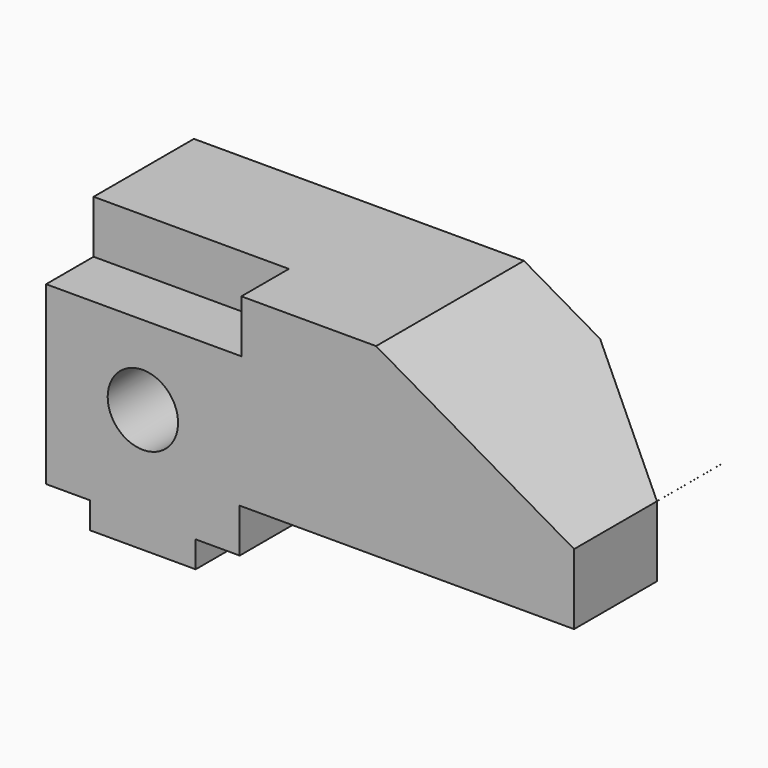
from build123d import *

# Parameters (mm, degrees)
F0_W      = 44
F0_H      = 30
F1_DEPTH  = 42
F3_D      = 16
F3_DEPTH  = 22
F3_TIP    = 4.8068849522
F4_W      = 44.3841926754
F4_H      = 12
F5_DEPTH  = 13.5
F8_DEPTH  = 87.7304734195
F10_DEPTH = 18.45
F11_DEPTH = 0.6


with BuildPart() as f1:
    # F0 (on Front) → F1 (new body)
    with BuildSketch(Plane.XZ):
        with Locations((22, 15)):
            Rectangle(F0_W, F0_H)
        Polygon((44, 0), (0, 0), (0, -10), (10, -10), (10, -16), (34, -16), (34, -10), (44, -10), align=None)
        Polygon((44, 30), (44, 0), (120, 0), (120, 16.0192378865), (75, 42), (0, 42), (0, 30), align=None)
    extrude(amount=F1_DEPTH)

    # F3
    with Locations(Plane.XZ.offset(42)):
        with Locations((22, 12)):
            Hole(F3_D / 2, depth=F3_DEPTH)
            with Locations((0, 0, -(F3_DEPTH + F3_TIP / 2))):  # 118° drill point
                Cone(0, F3_D / 2, F3_TIP, mode=Mode.SUBTRACT)

    # F4 (on face) → F5 (cut)
    with BuildSketch(Plane.XZ.offset(42)):
        with Locations((22.1920963377, 36)):
            Rectangle(F4_W, F4_H)
    extrude(amount=-F5_DEPTH, mode=Mode.SUBTRACT)

    # F7 (on face) → F8 (cut, through all)
    with BuildSketch(Plane(origin=(36.9365334795, 0, 63.9759526419), x_dir=(0.8660254038, 0, -0.5), z_dir=(0.5, 0, 0.8660254038))):
        Polygon((95.9134295109, 0), (63.9519052838, 0), (95.9134295109, -18.4529946162), align=None)
    extrude(amount=-F8_DEPTH, mode=Mode.SUBTRACT)

    # F9 (on face) → F10 (cut)
    with BuildSketch(Plane.XZ):
        Polygon((120.1416030526, 0), (120.0014874339, 16.0108022392), (110.7117310166, 0), align=None)
    extrude(amount=F10_DEPTH, mode=Mode.SUBTRACT)

    # F11 (cut): faces of the model
    f11_faces = [f1.faces().sort_by_distance(p)[0] for p in [
        (112.9756224533, -18.4444052592, 3.9017942404),
        (119.3575829171, -9.225, 14.9010392468),
    ]]
    extrude(f11_faces, amount=-F11_DEPTH, mode=Mode.SUBTRACT)


solid = f1.part
